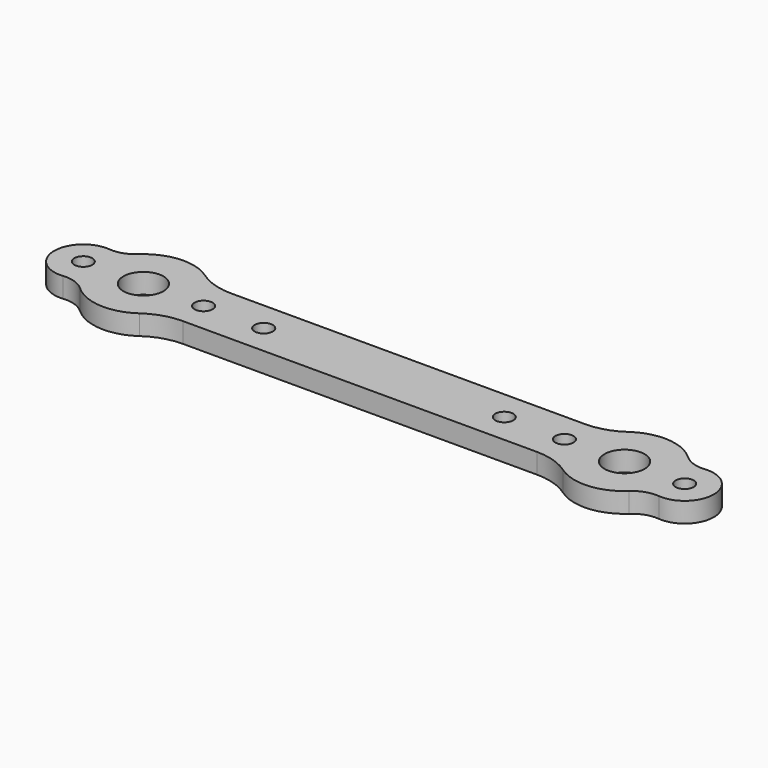
from build123d import *

# Parameters (mm, degrees)
F0_R     = 0.9
F0_R_2   = 2
F1_DEPTH = 2


with BuildPart() as f1:
    # F0 (on Top) → F1 (new body)
    with BuildSketch(Plane.XY):
        with BuildLine():
            Line((17.675445, 3), (0, 3))
            Line((0, 3), (-17.675445, 3))
            ThreePointArc((-17.675445, 3), (-19.484513, 3.279224), (-21.125202, 4.090909))
            ThreePointArc((-21.125202, 4.090909), (-24.334575, 4.988793), (-27.395313, 3.670402))
            ThreePointArc((-27.395313, 3.670402), (-28.474361, 3.029763), (-29.721059, 2.886554))
            ThreePointArc((-29.721059, 2.886554), (-32.9, 0), (-29.721059, -2.886554))
            ThreePointArc((-29.721059, -2.886554), (-28.474361, -3.029763), (-27.395312, -3.670402))
            ThreePointArc((-27.395312, -3.670402), (-24.334575, -4.988793), (-21.125202, -4.090909))
            ThreePointArc((-21.125202, -4.090909), (-19.484513, -3.279224), (-17.675445, -3))
            Line((-17.675445, -3), (0, -3))
            Line((0, -3), (17.675445, -3))
            ThreePointArc((17.675445, -3), (19.484513, -3.279224), (21.125202, -4.090909))
            ThreePointArc((21.125202, -4.090909), (24.334575, -4.988793), (27.395312, -3.670402))
            ThreePointArc((27.395312, -3.670402), (28.474361, -3.029763), (29.721059, -2.886554))
            ThreePointArc((29.721059, -2.886554), (32.9, 0), (29.721059, 2.886554))
            ThreePointArc((29.721059, 2.886554), (28.474361, 3.029763), (27.395312, 3.670402))
            ThreePointArc((27.395312, 3.670402), (24.334575, 4.988793), (21.125202, 4.090909))
            ThreePointArc((21.125202, 4.090909), (19.484513, 3.279224), (17.675445, 3))
        make_face()
        with Locations((-30, 0)):
            Circle(F0_R, mode=Mode.SUBTRACT)
        with Locations((-24, 0)):
            Circle(F0_R_2, mode=Mode.SUBTRACT)
        with Locations((-18, 0)):
            Circle(F0_R, mode=Mode.SUBTRACT)
        with Locations((-12, 0)):
            Circle(F0_R, mode=Mode.SUBTRACT)
        with Locations((12, 0)):
            Circle(F0_R, mode=Mode.SUBTRACT)
        with Locations((18, 0)):
            Circle(F0_R, mode=Mode.SUBTRACT)
        with Locations((24, 0)):
            Circle(F0_R_2, mode=Mode.SUBTRACT)
        with Locations((30, 0)):
            Circle(F0_R, mode=Mode.SUBTRACT)
    extrude(amount=F1_DEPTH)


solid = f1.part
